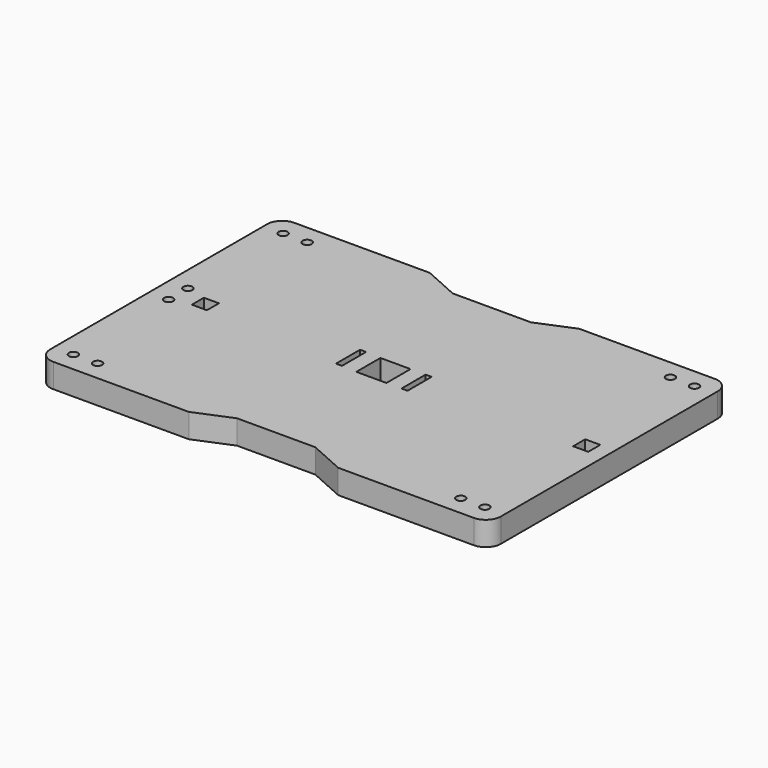
from build123d import *

# Parameters (mm, degrees)
F0_R     = 1.5
F0_W     = 10
F0_H     = 10
F0_W_2   = 2
F0_W_3   = 5
F0_H_2   = 5
F1_DEPTH = 4
F2_R     = 5


with BuildPart() as f1:
    # F0 (on Top) → F1 (new body, symmetric)
    with BuildSketch(Plane.XY):
        Polygon((-25.590715, 54), (-75.590715, 54), (-75.590715, -46), (-25.590715, -46), (-13.590715, -41), (12.409285, -41), (24.273563, -46.314029), (74.273563, -46.314029), (74.273563, 53.685971), (24.273563, 53.685971), (12.273563, 48.685971), (-13.726437, 48.685971), align=None)
        with Locations((-69.090715, -39.5)):
            Circle(F0_R, mode=Mode.SUBTRACT)
        with Locations((-61.090715, -39.5)):
            Circle(F0_R, mode=Mode.SUBTRACT)
        with Locations((-69.090715, 0)):
            Circle(F0_R, mode=Mode.SUBTRACT)
        with Locations((-0.726437, 3.685971)):
            Rectangle(F0_W, F0_H, mode=Mode.SUBTRACT)
        with Locations((59.773563, -39.814029)):
            Circle(F0_R, mode=Mode.SUBTRACT)
        with Locations((67.773563, -39.814029)):
            Circle(F0_R, mode=Mode.SUBTRACT)
        with Locations((10.273563, 3.685971)):
            Rectangle(F0_W_2, F0_H, mode=Mode.SUBTRACT)
        with Locations((66.773563, 3.685971)):
            Rectangle(F0_W_3, F0_H_2, mode=Mode.SUBTRACT)
        with Locations((-69.090715, 8)):
            Circle(F0_R, mode=Mode.SUBTRACT)
        with Locations((-60.090715, 4)):
            Rectangle(F0_W_3, F0_H_2, mode=Mode.SUBTRACT)
        with Locations((-11.726437, 4)):
            Rectangle(F0_W_2, F0_H, mode=Mode.SUBTRACT)
        with Locations((-69.090715, 47.5)):
            Circle(F0_R, mode=Mode.SUBTRACT)
        with Locations((-61.090715, 47.5)):
            Circle(F0_R, mode=Mode.SUBTRACT)
        with Locations((59.773563, 47.185971)):
            Circle(F0_R, mode=Mode.SUBTRACT)
        with Locations((67.773563, 47.185971)):
            Circle(F0_R, mode=Mode.SUBTRACT)
    extrude(amount=F1_DEPTH, both=True)

    # F2
    f2_edges = [f1.edges().sort_by_distance(p)[0] for p in [
        (-75.590715, 54, 0),
        (74.273563, 53.685971, 0),
        (74.273563, -46.314029, 0),
        (-75.590715, -46, 0),
    ]]
    fillet(f2_edges, radius=F2_R)


solid = f1.part
